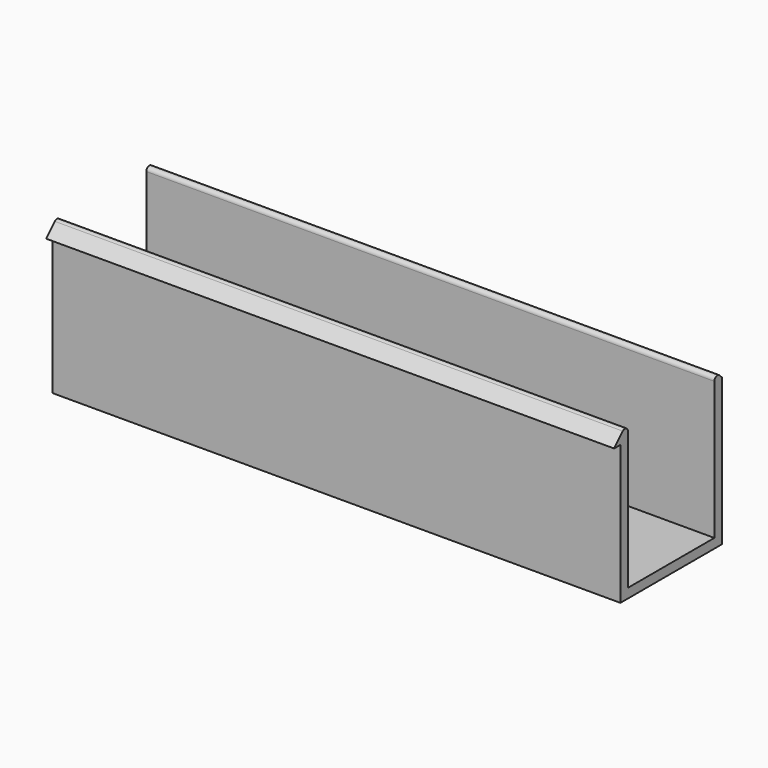
from build123d import *

# Parameters (mm, degrees)
F1_DEPTH = 7.52


with BuildPart() as f1:
    # F0 (on Right) → F1 (new body)
    with BuildSketch(Plane.YZ):
        with BuildLine():
            Line((0, 1.841711), (0, 0))
            Line((0, 0), (1.68, 0))
            Line((1.68, 0), (1.68, 1.841711))
            Line((1.68, 1.841711), (1.68, 1.945711))
            Line((1.68, 1.945711), (1.640355, 1.985355))
            ThreePointArc((1.640355, 1.985355), (1.585866, 1.996194), (1.555, 1.95))
            Line((1.555, 1.95), (1.555, 0.125))
            Line((1.555, 0.125), (0.125, 0.125))
            Line((0.125, 0.125), (0.125, 1.95))
            ThreePointArc((0.125, 1.95), (0.094134, 1.996194), (0.039645, 1.985355))
            Line((0.039645, 1.985355), (-0.104, 1.841711))
            Line((-0.104, 1.841711), (0, 1.841711))
        make_face()
    extrude(amount=F1_DEPTH)


solid = f1.part
